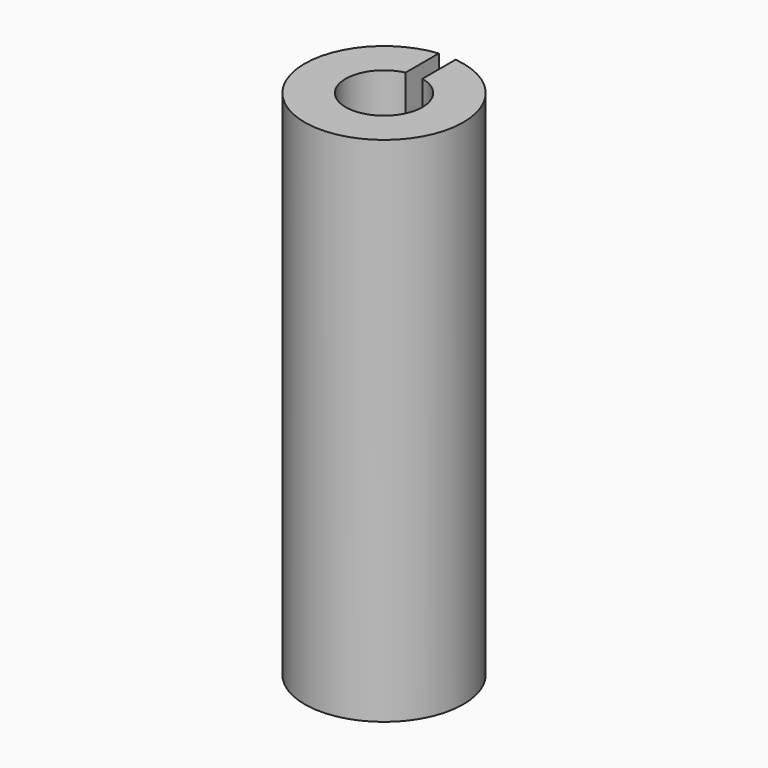
from build123d import *

# Parameters (mm, degrees)
F0_R     = 1.55
F0_R_2   = 0.75
F1_DEPTH = 10
F3_DEPTH = 10


with BuildPart() as f1:
    # F0 (on Top) → F1 (new body)
    with BuildSketch(Plane.XY):
        Circle(F0_R)
        Circle(F0_R_2, mode=Mode.SUBTRACT)
    extrude(amount=F1_DEPTH)

    # F2 (on face) → F3 (cut)
    with BuildSketch(Plane.XY.offset(10)):
        with BuildLine():
            Line((0.1643288851, 0.7317759339), (0.1643288851, 1.5412644217))
            ThreePointArc((0.1643288851, 1.5412644217), (0, 1.55), (-0.1643288851, 1.5412644217))
            Line((-0.1643288851, 1.5412644217), (-0.1643288851, 0.7317759339))
            ThreePointArc((-0.1643288851, 0.7317759339), (0, 0.75), (0.1643288851, 0.7317759339))
        make_face()
    extrude(amount=-F3_DEPTH, mode=Mode.SUBTRACT)


solid = f1.part
